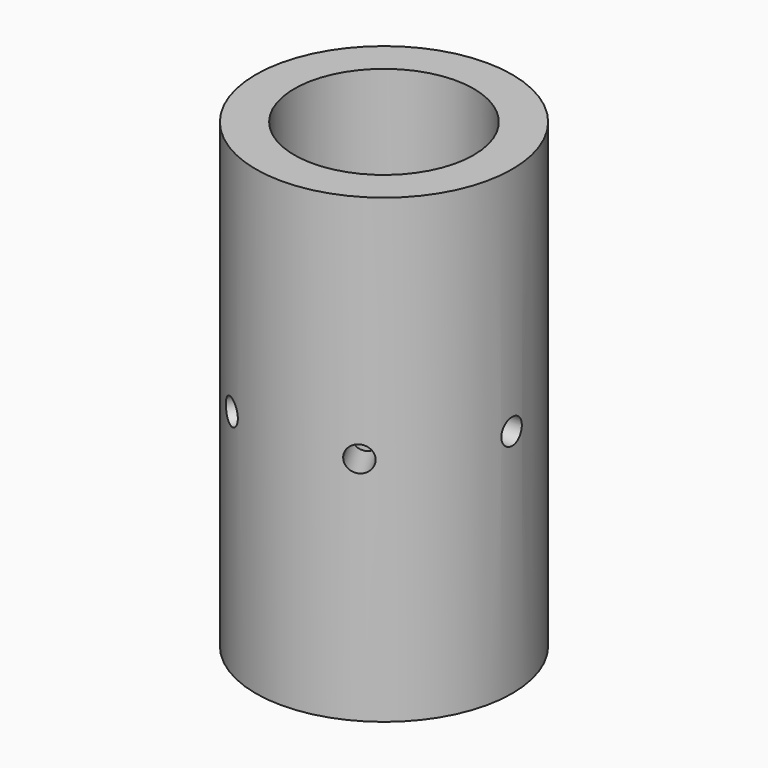
from build123d import *

# Parameters (mm, degrees)
F0_R     = 50
F0_R_2   = 35
F1_DEPTH = 180
F2_R     = 5
F3_DEPTH = 60
F4_COUNT = 6


with BuildPart() as f1:
    # F0 (on Top) → F1 (new body)
    with BuildSketch(Plane.XY):
        Circle(F0_R)
        Circle(F0_R_2, mode=Mode.SUBTRACT)
    extrude(amount=F1_DEPTH)


with BuildPart() as f3:
    # F2 (on Right) → F3 (new body)
    with BuildSketch(Plane.YZ):
        with Locations((0, 90)):
            Circle(F2_R)
    extrude(amount=F3_DEPTH)


with BuildPart() as f4_1:
    # F4: instance of F3
    add(f3.part.rotate(Axis((0, 0, 90), (0, 0, 1)), 1 * 360 / F4_COUNT))


with BuildPart() as f4_2:
    # F4: instance of F3
    add(f3.part.rotate(Axis((0, 0, 90), (0, 0, 1)), 2 * 360 / F4_COUNT))


with BuildPart() as f4_3:
    # F4: instance of F3
    add(f3.part.rotate(Axis((0, 0, 90), (0, 0, 1)), 3 * 360 / F4_COUNT))


with BuildPart() as f4_4:
    # F4: instance of F3
    add(f3.part.rotate(Axis((0, 0, 90), (0, 0, 1)), 4 * 360 / F4_COUNT))


with BuildPart() as f4_5:
    # F4: instance of F3
    add(f3.part.rotate(Axis((0, 0, 90), (0, 0, 1)), 5 * 360 / F4_COUNT))


with BuildPart() as f1_1:
    add(f1.part)

    # F5: cut F4_4, F4_5, F3, F4_1, F4_2, F4_3
    add(f4_4.part, mode=Mode.SUBTRACT)
    add(f4_5.part, mode=Mode.SUBTRACT)
    add(f3.part, mode=Mode.SUBTRACT)
    add(f4_1.part, mode=Mode.SUBTRACT)
    add(f4_2.part, mode=Mode.SUBTRACT)
    add(f4_3.part, mode=Mode.SUBTRACT)


solid = f1_1.part
